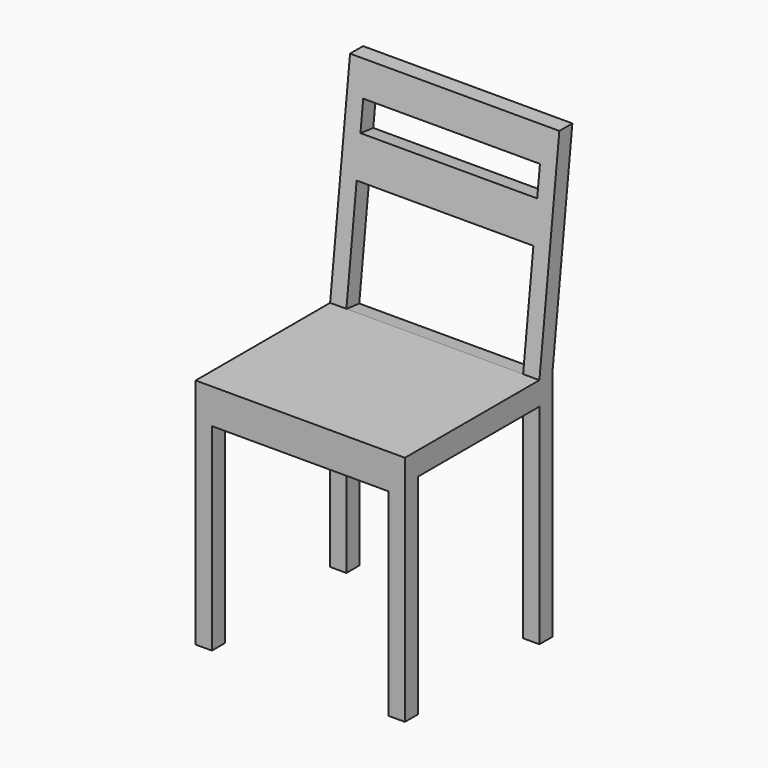
from build123d import *

# Parameters (mm, degrees)
F0_W     = 450
F0_H     = 450
F1_DEPTH = 950
F2_W     = 53.5874837637
F2_H     = 50
F2_H_2   = 450
F2_W_2   = 326.4125162363
F3_DEPTH = 450.001
F4_W     = 380
F4_H     = 425
F5_DEPTH = 450.001
F6_W     = 380
F6_H     = 233.320171364
F6_H_2   = 62.848264869
F7_DEPTH = 147.0908754191


with BuildPart() as f1:
    # F0 (on Top) → F1 (new body)
    with BuildSketch(Plane.XY):
        Rectangle(F0_W, F0_H)
    extrude(amount=F1_DEPTH)

    # F2 (on face) → F3 (cut, through all)
    with BuildSketch(Plane.YZ.offset(225)):
        Polygon((-225, 950), (-225, 500), (136.4125162363, 500), (190, 950), align=None)
        Polygon((225, 950), (171.4125162363, 500), (225, 500), align=None)
        with Locations((198.2062581182, 475)):
            Rectangle(F2_W, F2_H)
        with Locations((198.2062581182, 225)):
            Rectangle(F2_W, F2_H_2)
        with Locations((-26.7937418818, 225)):
            Rectangle(F2_W_2, F2_H_2)
    extrude(amount=-F3_DEPTH, mode=Mode.SUBTRACT)

    # F4 (on face) → F5 (cut, through all)
    with BuildSketch(Plane.XZ.offset(225)):
        with Locations((0, 212.5)):
            Rectangle(F4_W, F4_H)
    extrude(amount=-F5_DEPTH, mode=Mode.SUBTRACT)

    # F6 (on face) → F7 (cut, through all)
    with BuildSketch(Plane(origin=(0, 75.7960170498, -9.0260396289), x_dir=(1, 0, 0), z_dir=(0, -0.9929841149, 0.1182478225))):
        with Locations((0, 629.2826261481)):
            Rectangle(F6_W, F6_H)
        with Locations((0, 863.5165368001)):
            Rectangle(F6_W, F6_H_2)
    extrude(amount=-F7_DEPTH, mode=Mode.SUBTRACT)


solid = f1.part
